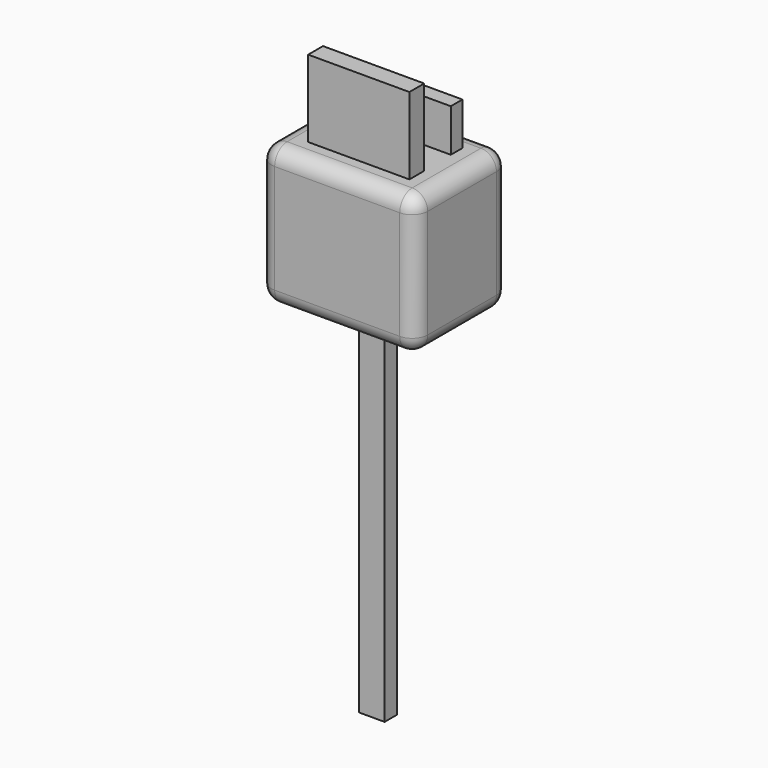
from build123d import *

# Parameters (mm, degrees)
F0_W      = 510.343529284
F0_H      = 382.2830170393
F1_DEPTH  = 457.2
F2_R      = 50.8
F3_DEPTH  = 50.8
F4_DEPTH  = 50.8
F5_W      = 83.5220366716
F5_H      = 1222.6189523935
F6_DEPTH  = 50.8
F9_W      = 346.8624
F9_H      = 47.6359724998
F10_DEPTH = 139.7
F12_W     = 330.8341950178
F12_H     = 60.5417340994
F13_DEPTH = 251.46


with BuildPart() as f1:
    # F0 (on Top) → F1 (new body)
    with BuildSketch(Plane.XY):
        with Locations((-321.4268200099, 282.1026220918)):
            Rectangle(F0_W, F0_H)
    extrude(amount=F1_DEPTH)

    # F2
    f2_edges = [f1.edges().sort_by_distance(p)[0] for p in [
        (-321.42682, 473.244131, 457.2),
        (-576.598585, 282.102622, 457.2),
        (-321.42682, 90.961114, 457.2),
        (-66.255055, 282.102622, 457.2),
        (-66.255055, 473.244131, 228.6),
        (-576.598585, 473.244131, 228.6),
        (-321.42682, 473.244131, 0),
        (-576.598585, 90.961114, 228.6),
        (-576.598585, 282.102622, 0),
        (-66.255055, 90.961114, 228.6),
        (-321.42682, 90.961114, 0),
        (-66.255055, 282.102622, 0),
    ]]
    fillet(f2_edges, radius=F2_R)

    # F3 (add): a face of the model
    f3_faces = [f1.faces().sort_by_distance(p)[0] for p in [
        (-576.5985846519, 282.1026220918, 228.6),
    ]]
    extrude(f3_faces, amount=-F3_DEPTH)

    # F4 (add): a face of the model
    f4_faces = [f1.faces().sort_by_distance(p)[0] for p in [
        (-66.2550553679, 282.1026220918, 228.6),
    ]]
    extrude(f4_faces, amount=-F4_DEPTH)

    # F9 (on face) → F10 (join)
    with BuildSketch(Plane.XY.offset(457.2)):
        with Locations((-327.8354080641, 370.0289130211)):
            Rectangle(F9_W, F9_H)
    extrude(amount=F10_DEPTH)


with BuildPart() as f6:
    # F5 (on Front) → F6 (new body)
    with BuildSketch(Plane.XZ):
        with Locations((-250.2948865294, -697.3525807261)):
            Rectangle(F5_W, F5_H)
    extrude(amount=F6_DEPTH)


with BuildPart() as f6_1:
    # F7: moved
    add(f6.part.moved(Location((0, 330.2, 0))))


with BuildPart() as f6_2:
    # F8: moved
    add(f6_1.part.moved(Location((-86.36, -27.94, 127))))


with BuildPart() as f11_1:
    # F11: copy of F1
    add(f1.part)


with BuildPart() as f13:
    # F12 (on face) → F13 (new body)
    with BuildSketch(Plane.XY.offset(457.2)):
        with Locations((-317.2894492745, 204.182125628)):
            Rectangle(F12_W, F12_H)
    extrude(amount=F13_DEPTH)


solid = Compound([f1.part, f6_2.part, f11_1.part, f13.part])
